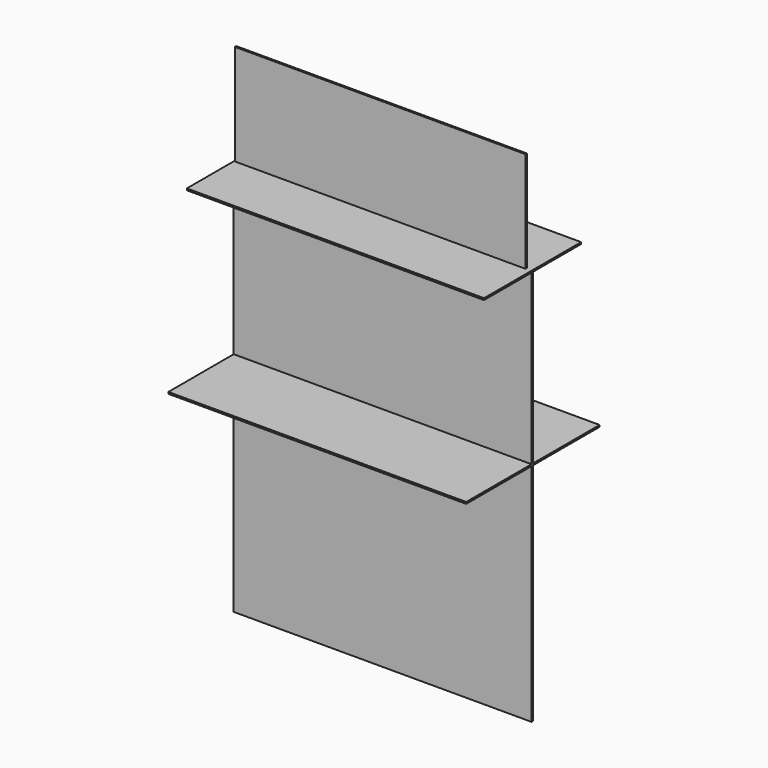
from build123d import *

# Parameters (mm, degrees)
F0_W     = 44.083602
F0_H     = 33.323038
F1_DEPTH = 0.254
F2_W     = 44.083606
F2_H     = 24.686816
F3_DEPTH = 0.254
F4_W     = 44.083606
F4_H     = 25.171924
F5_DEPTH = 0.254
F6_W     = 43.984536
F6_H     = 17.969414
F7_DEPTH = 0.254
F8_W     = 43.022267
F8_H     = 15.82749
F9_DEPTH = 0.254


with BuildPart() as f1:
    # F0 (on Front) → F1 (new body)
    with BuildSketch(Plane.XZ):
        with Locations((0, -16.661519)):
            Rectangle(F0_W, F0_H)
    extrude(amount=F1_DEPTH)

    # F2 (on face) → F3 (join)
    with BuildSketch(Plane.XY):
        Rectangle(F2_W, F2_H)
    extrude(amount=F3_DEPTH)

    # F4 (on Front) → F5 (join)
    with BuildSketch(Plane.XZ):
        with Locations((0, 12.585962)):
            Rectangle(F4_W, F4_H)
    extrude(amount=F5_DEPTH)

    # F6 (on face) → F7 (join)
    with BuildSketch(Plane.XY.offset(25.171924)):
        Rectangle(F6_W, F6_H)
    extrude(amount=F7_DEPTH)

    # F8 (on Front) → F9 (join)
    with BuildSketch(Plane.XZ):
        with Locations((-0.362341, 32.440369)):
            Rectangle(F8_W, F8_H)
    extrude(amount=F9_DEPTH)


solid = f1.part
